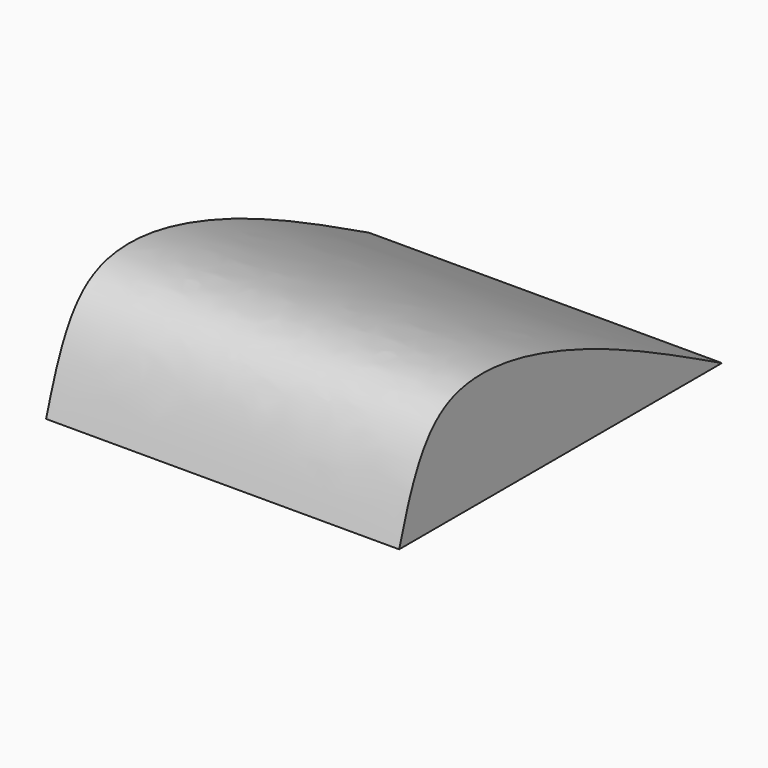
from build123d import *

# Parameters (mm, degrees)
F0_W     = 44.45
F0_H     = 50.8
F1_DEPTH = 19.05
F3_DEPTH = 44.451
F4_T     = -1.5875


with BuildPart() as f1:
    # F0 (on Top) → F1 (new body)
    with BuildSketch(Plane.XY):
        Rectangle(F0_W, F0_H)
    extrude(amount=F1_DEPTH)

    # F2 (on face) → F3 (cut, through all)
    with BuildSketch(Plane(origin=(-22.225, 0, 0), x_dir=(0, -1, 0), z_dir=(-1, 0, 0))):
        with BuildLine():
            Line((-25.4, 19.05), (-25.4, 0))
            add(Edge.make_bspline(
                [(-25.4, 0), (-16.9891224495, 4.4170263021), (-1.7691594232, 12.4098875227), (20.3051132663, 16.4752051875), (23.7662970219, 5.2828636212), (25.4, 0)],
                knots=[0, 0, 0, 0, 0.3947463386, 0.714316032, 1, 1, 1, 1], degree=3))
            Line((25.4, 0), (25.4, 19.05))
            Line((25.4, 19.05), (-25.4, 19.05))
        make_face()
    extrude(amount=-F3_DEPTH, mode=Mode.SUBTRACT)

    # F4
    f4_openings = [f1.faces().sort_by_distance(p)[0] for p in [
        (0, 0, 0),
    ]]
    offset(amount=F4_T, openings=f4_openings)


solid = f1.part
